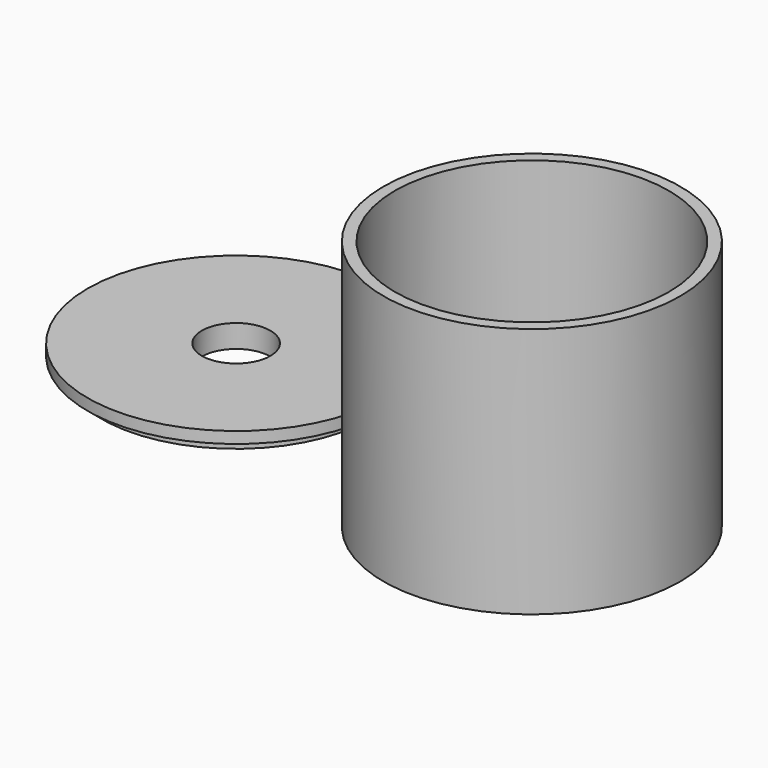
from build123d import *

# Parameters (mm, degrees)
F0_R     = 60
F1_DEPTH = 5
F0_R_2   = 65
F2_DEPTH = 110
F3_R     = 59
F3_R_2   = 15
F4_DEPTH = 10
F3_R_3   = 65
F5_DEPTH = 5
F7_ANGLE = 180


with BuildPart() as f1:
    # F0 (on Top) → F1 (new body)
    with BuildSketch(Plane.XY):
        Circle(F0_R)
    extrude(amount=F1_DEPTH)

    # F0 (on Top) → F2 (join)
    with BuildSketch(Plane.XY):
        Circle(F0_R_2)
        Circle(F0_R, mode=Mode.SUBTRACT)
    extrude(amount=F2_DEPTH)


with BuildPart() as f4:
    # F3 (on Top) → F4 (new body)
    with BuildSketch(Plane.XY):
        with Locations((-139.811113, 12.882268)):
            Circle(F3_R)
        with Locations((-139.811113, 12.882268)):
            Circle(F3_R_2, mode=Mode.SUBTRACT)
    extrude(amount=F4_DEPTH)

    # F3 (on Top) → F5 (join)
    with BuildSketch(Plane.XY):
        with Locations((-139.811113, 12.882268)):
            Circle(F3_R_3)
        with Locations((-139.811113, 12.882268)):
            Circle(F3_R, mode=Mode.SUBTRACT)
    extrude(amount=F5_DEPTH)


with BuildPart() as f4_1:
    # F7: moved
    add(f4.part.rotate(Axis((-178.227551, 12.882268, 10), (-1, 0, 0)), F7_ANGLE))


solid = Compound([f1.part, f4_1.part])
